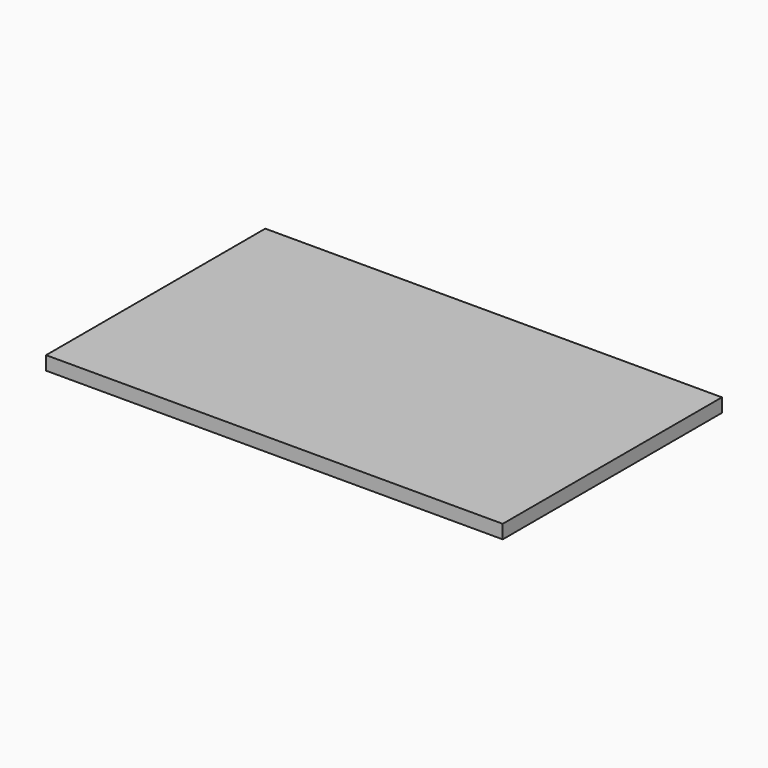
from build123d import *

# Parameters (mm, degrees)
F0_W     = 20
F0_H     = 12
F0_W_2   = 10
F0_H_2   = 10
F1_DEPTH = 0.6


with BuildPart() as f1:
    # F0 (on Top) → F1 (new body)
    with BuildSketch(Plane.XY):
        Rectangle(F0_W, F0_H)
        with Locations((-4, 0)):
            Rectangle(F0_W_2, F0_H_2, mode=Mode.SUBTRACT)
        with Locations((-4, 0)):
            Rectangle(F0_W_2, F0_H_2)
    extrude(amount=F1_DEPTH)


solid = f1.part
